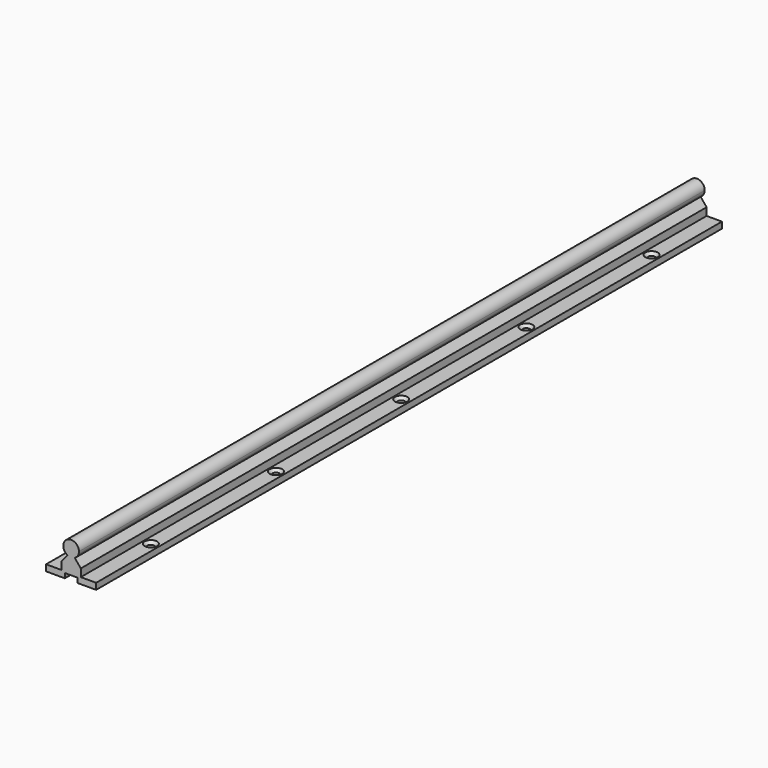
from build123d import *

# Parameters (mm, degrees)
F1_W           = 9.8
F1_H           = 4
F1_W_2         = 12.4
F1_H_2         = 4.9
F3_DEPTH       = 500
F5_D           = 4.5
F5_CSINK_D     = 8
F5_CSINK_ANGLE = 90


with BuildPart() as f3:
    # F1 (on Front) → F3 (new body, through all)
    with BuildSketch(Plane.XZ):
        with Locations((11.1, 2)):
            Rectangle(F1_W, F1_H)
        Polygon((-6.2, 4), (-6.2, 0), (-4, 0), (-4, 3), (4, 3), (4, 0), (6.2, 0), (6.2, 4), align=None)
        with Locations((0, 6.45)):
            Rectangle(F1_W_2, F1_H_2)
        with BuildLine():
            ThreePointArc((5, 18), (-2.5739075352, 22.2866070499), (-2.35, 13.5866679255))
            ThreePointArc((-2.35, 13.5866679255), (0, 13), (2.35, 13.5866679255))
            ThreePointArc((2.35, 13.5866679255), (4.2866070499, 15.4260924648), (5, 18))
        make_face()
        with Locations((-11.1, 2)):
            Rectangle(F1_W, F1_H)
        with BuildLine():
            Line((-2.35, 13.5866679255), (-6.2, 8.9))
            Line((-6.2, 8.9), (6.2, 8.9))
            Line((6.2, 8.9), (2.35, 13.5866679255))
            ThreePointArc((2.35, 13.5866679255), (0, 13), (-2.35, 13.5866679255))
        make_face()
    extrude(amount=F3_DEPTH)

    # F5 (through all)
    with Locations(Plane.XY.offset(4)):
        with Locations((11, -50), (-11, -50), (-11, -150), (11, -150), (11, -250), (-11, -250), (11, -350), (-11, -350), (11, -450), (-11, -450)):
            CounterSinkHole(F5_D / 2, F5_CSINK_D / 2, counter_sink_angle=F5_CSINK_ANGLE)


with BuildPart() as f6_1:
    # F6: copy of F3
    add(f3.part)


solid = f3.part
